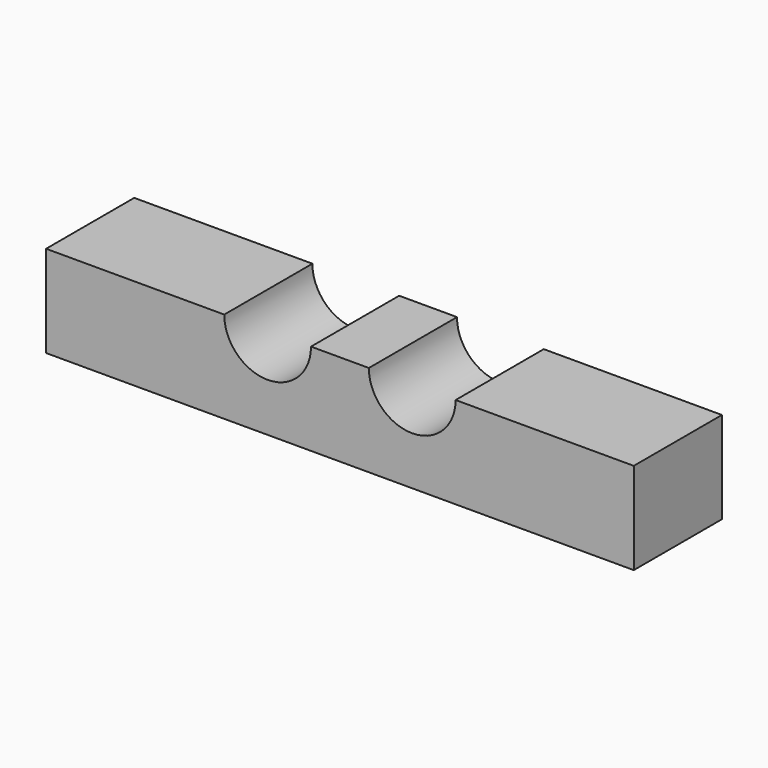
from build123d import *

# Parameters (mm, degrees)
F1_DEPTH = 76.2


with BuildPart() as f1:
    # F0 (on Front) → F1 (new body)
    with BuildSketch(Plane.XZ):
        with BuildLine():
            Line((-203.2, 0), (0, 0))
            Line((0, 0), (203.2, 0))
            Line((203.2, 0), (203.2, 63.5))
            Line((203.2, 63.5), (80, 63.5))
            ThreePointArc((80, 63.5), (50, 33.5), (20, 63.5))
            Line((20, 63.5), (0, 63.5))
            Line((0, 63.5), (-20, 63.5))
            ThreePointArc((-20, 63.5), (-50, 33.5), (-80, 63.5))
            Line((-80, 63.5), (-203.2, 63.5))
            Line((-203.2, 63.5), (-203.2, 0))
        make_face()
    extrude(amount=F1_DEPTH)


solid = f1.part
